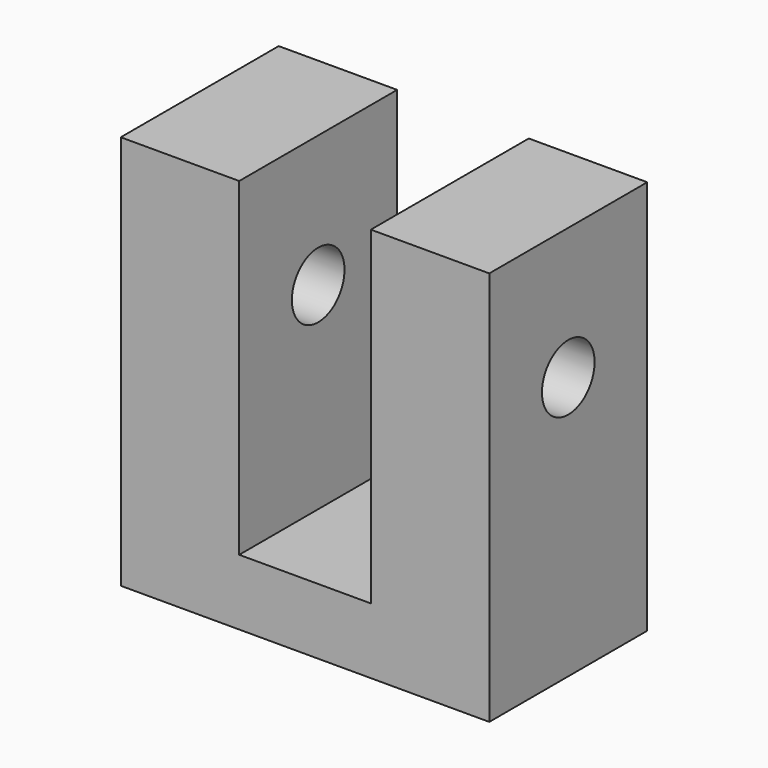
from build123d import *

# Parameters (mm, degrees)
F1_DEPTH = 9.525
F2_R     = 3.175
F3_DEPTH = 35.561
F4_R     = 3.175
F5_DEPTH = 12.7


with BuildPart() as f1:
    # F0 (on Front) → F1 (new body, symmetric)
    with BuildSketch(Plane.XZ):
        Polygon((-6.35, 12.7), (-17.78, 12.7), (-17.78, -25.4), (17.78, -25.4), (17.78, 12.7), (6.35, 12.7), (6.35, -19.05), (-6.35, -19.05), align=None)
    extrude(amount=F1_DEPTH, both=True)

    # F2 (on face) → F3 (cut, through all)
    with BuildSketch(Plane(origin=(-17.78, 0, 0), x_dir=(0, -1, 0), z_dir=(-1, 0, 0))):
        Circle(F2_R)
    extrude(amount=-F3_DEPTH, mode=Mode.SUBTRACT)

    # F4 (on face) → F5 (cut)
    with BuildSketch(Plane(origin=(0, 0, -25.4), x_dir=(1, 0, 0), z_dir=(0, 0, -1))):
        with Locations((-13.0048, 3.175)):
            Circle(F4_R)
        with Locations((13.0048, 3.175)):
            Circle(F4_R)
    extrude(amount=-F5_DEPTH, mode=Mode.SUBTRACT)


solid = f1.part
